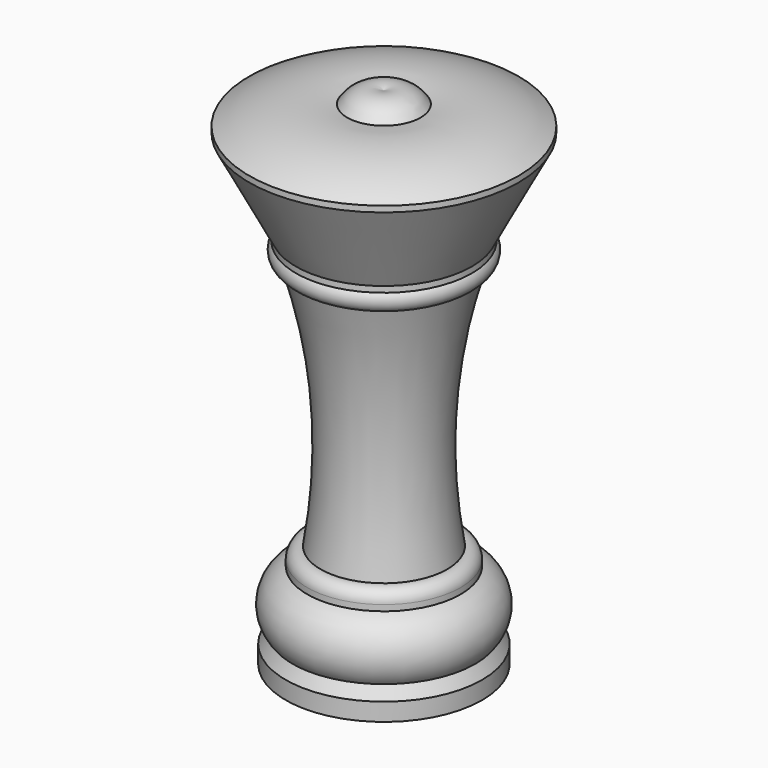
from build123d import *


with BuildPart() as f1:
    # F0 (on Front) → F1 (revolve)
    with BuildSketch(Plane.XZ):
        with BuildLine():
            ThreePointArc((22.68369, -5.27), (14.722675, -2.18061), (6.185141, -2))
            ThreePointArc((6.185141, -2), (3.461937, 0.142291), (0, 0))
            Line((0, 0), (0, -85))
            Line((0, -85), (16.541861, -85))
            Line((16.541861, -85), (16.541861, -82))
            Line((16.541861, -82), (15.387268, -80))
            ThreePointArc((15.387268, -80), (16.625217, -74.603033), (12.917318, -70.490704))
            Line((12.917318, -70.490704), (12.917318, -69.490704))
            ThreePointArc((12.917318, -69.490704), (12.237906, -67.988689), (10.661271, -67.507162))
            ThreePointArc((10.661271, -67.507162), (9.613948, -46.348498), (13.541438, -25.53118))
            ThreePointArc((13.541438, -25.53118), (15.14805, -24.280449), (14.826145, -22.27))
            Line((14.826145, -22.27), (14.826145, -21.27))
            Line((14.826145, -21.27), (22.68369, -6.27))
            Line((22.68369, -6.27), (22.68369, -5.27))
        make_face()
    revolve(axis=Axis((0, 0, -42.5), (0, 0, 1)))


solid = f1.part
